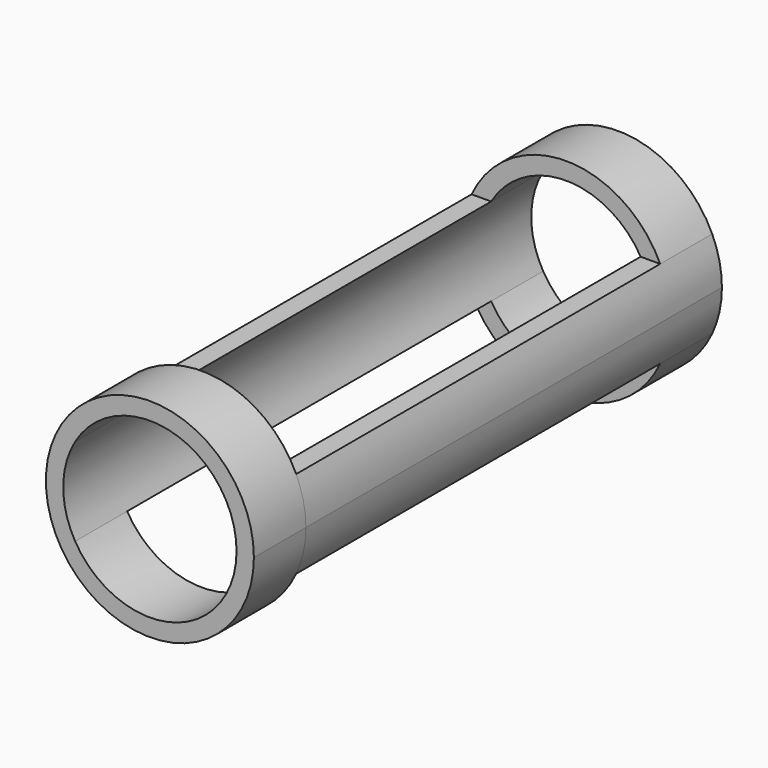
from build123d import *

# Parameters (mm, degrees)
F1_DEPTH = 304.8
F2_DEPTH = 38.1
F4_DEPTH = 38.1


with BuildPart() as f1:
    # F0 (on Front) → F1 (new body)
    with BuildSketch(Plane.XZ):
        with BuildLine():
            Line((-43.809108, 25.717738), (-55.269517, 25.717738))
            ThreePointArc((-55.269517, 25.717738), (-60.96, 0), (-55.269517, -25.717738))
            Line((-55.269517, -25.717738), (-43.809108, -25.717738))
            ThreePointArc((-43.809108, -25.717738), (-50.8, 0), (-43.809108, 25.717738))
        make_face()
        with BuildLine():
            ThreePointArc((55.269517, -25.717738), (59.52038, -13.169887), (60.96, 0))
            ThreePointArc((60.96, 0), (59.52038, 13.169887), (55.269517, 25.717738))
            Line((55.269517, 25.717738), (43.809108, 25.717738))
            ThreePointArc((43.809108, 25.717738), (49.021132, 13.325489), (50.8, 0))
            ThreePointArc((50.8, 0), (49.021132, -13.325489), (43.809108, -25.717738))
            Line((43.809108, -25.717738), (55.269517, -25.717738))
        make_face()
    extrude(amount=F1_DEPTH)

    # F0 (on Front) → F2 (join)
    with BuildSketch(Plane.XZ):
        with BuildLine():
            Line((43.809108, 25.717738), (55.269517, 25.717738))
            ThreePointArc((55.269517, 25.717738), (0, 60.96), (-55.269517, 25.717738))
            Line((-55.269517, 25.717738), (-43.809108, 25.717738))
            ThreePointArc((-43.809108, 25.717738), (0, 50.8), (43.809108, 25.717738))
        make_face()
        with BuildLine():
            ThreePointArc((-55.269517, -25.717738), (0, -60.96), (55.269517, -25.717738))
            Line((55.269517, -25.717738), (43.809108, -25.717738))
            ThreePointArc((43.809108, -25.717738), (0, -50.8), (-43.809108, -25.717738))
            Line((-43.809108, -25.717738), (-55.269517, -25.717738))
        make_face()
    extrude(amount=F2_DEPTH)

    # F3 (on face) → F4 (join)
    with BuildSketch(Plane.XZ.offset(304.8)):
        with BuildLine():
            Line((-43.809108, 25.717738), (-55.269517, 25.717738))
            ThreePointArc((-55.269517, 25.717738), (-60.96, 0), (-55.269517, -25.717738))
            Line((-55.269517, -25.717738), (-43.809108, -25.717738))
            ThreePointArc((-43.809108, -25.717738), (-50.8, 0), (-43.809108, 25.717738))
        make_face()
        with BuildLine():
            ThreePointArc((-55.269517, -25.717738), (13.169887, -59.52038), (60.96, 0))
            ThreePointArc((60.96, 0), (13.169887, 59.52038), (-55.269517, 25.717738))
            Line((-55.269517, 25.717738), (-43.809108, 25.717738))
            ThreePointArc((-43.809108, 25.717738), (13.325489, 49.021132), (50.8, 0))
            ThreePointArc((50.8, 0), (13.325489, -49.021132), (-43.809108, -25.717738))
            Line((-43.809108, -25.717738), (-55.269517, -25.717738))
        make_face()
    extrude(amount=F4_DEPTH)


solid = f1.part
